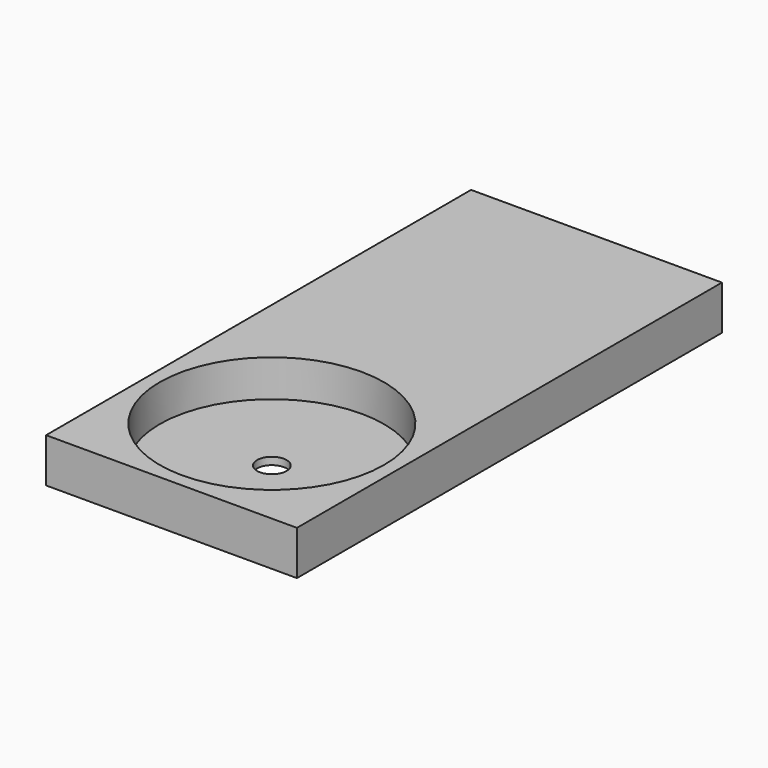
from build123d import *

# Parameters (mm, degrees)
F0_W     = 170
F0_H     = 360
F1_DEPTH = 30
F2_R     = 10
F3_DEPTH = 30.001
F4_R     = 76
F4_R_2   = 10
F5_DEPTH = 25


with BuildPart() as f1:
    # F0 (on Top) → F1 (new body)
    with BuildSketch(Plane.XY):
        Rectangle(F0_W, F0_H)
    extrude(amount=F1_DEPTH)

    # F2 (on face) → F3 (cut, through all)
    with BuildSketch(Plane.XY.offset(30)):
        with Locations((0, -95)):
            Circle(F2_R)
    extrude(amount=-F3_DEPTH, mode=Mode.SUBTRACT)

    # F4 (on face) → F5 (cut)
    with BuildSketch(Plane.XY.offset(30)):
        with Locations((0, -95)):
            Circle(F4_R)
        with Locations((0, -95)):
            Circle(F4_R)
        with Locations((0, -95)):
            Circle(F4_R_2, mode=Mode.SUBTRACT)
    extrude(amount=-F5_DEPTH, mode=Mode.SUBTRACT)


solid = f1.part
